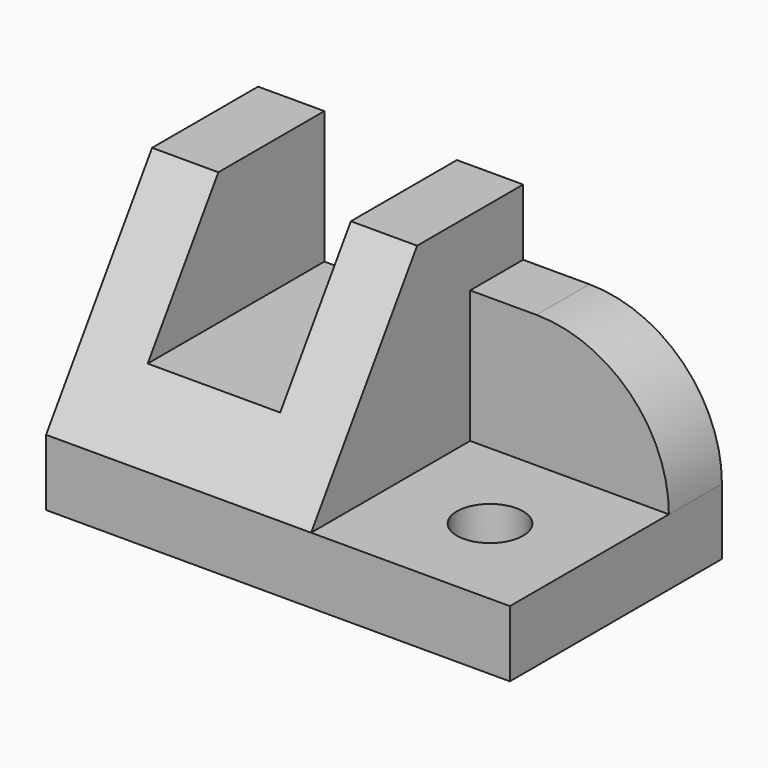
from build123d import *

# Parameters (mm, degrees)
F1_DEPTH = 20
F2_SIZE2 = 30
F2_SIZE  = 20
F3_W     = 20
F3_H     = 20
F4_DEPTH = 40.001
F6_DEPTH = 10
F7_R     = 5
F8_DEPTH = 10


with BuildPart() as f1:
    # F0 (on Front) → F1 (new body, symmetric)
    with BuildSketch(Plane.XZ):
        Polygon((0, 40), (0, 0), (70, 0), (70, 10), (40, 10), (40, 40), align=None)
    extrude(amount=F1_DEPTH, both=True)

    # F2
    f2_edges = [f1.edges().sort_by_distance(p)[0] for p in [
        (20, -20, 40),
    ]]
    chamfer(f2_edges, length=F2_SIZE, length2=F2_SIZE2)

    # F3 (on face) → F4 (cut, through all)
    with BuildSketch(Plane(origin=(0, 20, 0), x_dir=(-1, 0, 0), z_dir=(0, 1, 0))):
        with Locations((-20, 30)):
            Rectangle(F3_W, F3_H)
    extrude(amount=-F4_DEPTH, mode=Mode.SUBTRACT)

    # F5 (on face) → F6 (join)
    with BuildSketch(Plane(origin=(0, 20, 0), x_dir=(-1, 0, 0), z_dir=(0, 1, 0))):
        with BuildLine():
            Line((-40, 10), (-40, 30))
            Line((-40, 30), (-50, 30))
            ThreePointArc((-50, 30), (-64.142136, 24.142136), (-70, 10))
            Line((-70, 10), (-40, 10))
        make_face()
    extrude(amount=-F6_DEPTH)

    # F7 (on face) → F8 (cut, through all)
    with BuildSketch(Plane.XY.offset(10)):
        with Locations((55, -5)):
            Circle(F7_R)
    extrude(amount=-F8_DEPTH, mode=Mode.SUBTRACT)


solid = f1.part
